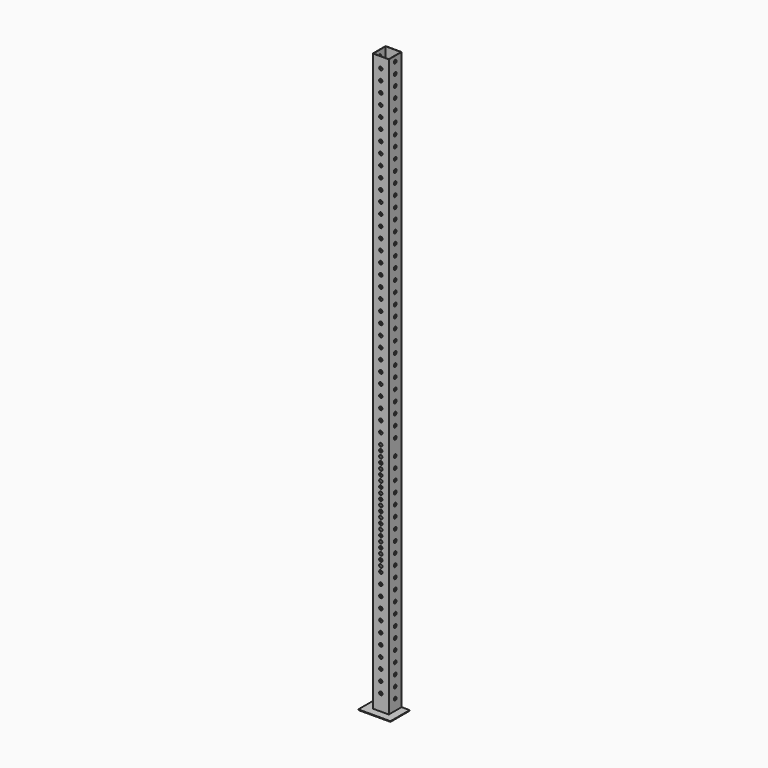
from build123d import *

# Parameters (mm, degrees)
F0_W     = 152.589858
F0_H     = 114.351779
F0_W_2   = 76.2
F0_H_2   = 76.2
F1_DEPTH = 3.048
F0_W_3   = 73.152
F0_H_3   = 73.152
F2_DEPTH = 2743.2
F7_D     = 15.875
F8_D     = 15.875


with BuildPart() as f1:
    # F0 (on Top) → F1 (new body)
    with BuildSketch(Plane.XY):
        with Locations((0.045307, -19.073733)):
            Rectangle(F0_W, F0_H)
        Rectangle(F0_W_2, F0_H_2, mode=Mode.SUBTRACT)
    extrude(amount=-F1_DEPTH)

    # F0 (on Top) → F2 (join)
    with BuildSketch(Plane.XY):
        Rectangle(F0_W_2, F0_H_2)
        Rectangle(F0_W_3, F0_H_3, mode=Mode.SUBTRACT)
    extrude(amount=F2_DEPTH)

    # F7 (through all)
    with Locations(Plane.XZ.offset(76.2)):
        with Locations((2.3e-05, 76.2), (2.3e-05, 127), (2.3e-05, 177.8), (2.3e-05, 228.6), (2.3e-05, 279.4), (2.3e-05, 330.2), (2.3e-05, 381), (2.3e-05, 431.8), (2.3e-05, 482.6), (2.3e-05, 533.4), (2.3e-05, 584.2), (0, 609.59998), (-2.3e-05, 634.999959), (-4.6e-05, 660.399939), (-6.8e-05, 685.799918), (-9.1e-05, 711.199898), (-0.000114, 736.599877), (-0.000137, 761.999857), (-0.00016, 787.399836), (-0.000183, 812.799816), (-0.000205, 838.199795), (-0.000228, 863.599775), (-0.000251, 888.999754), (-0.000274, 914.399734), (-0.000297, 939.799713), (-0.00032, 965.199693), (-0.000342, 990.599672), (-0.000365, 1015.999652), (-0.000388, 1041.399632), (-0.000411, 1066.799611), (-0.000434, 1092.199591), (-0.000457, 1117.59957), (0.000502, 1168.39957), (0.000502, 1219.19957), (0.000502, 1269.99957), (0.000502, 1320.79957), (0.000502, 1371.59957), (0.000502, 1422.39957), (0.000502, 1473.19957), (0.000502, 1523.99957), (0.000502, 1574.79957), (0.000502, 1625.59957), (0.000502, 1676.39957), (0.000502, 1727.19957), (0.000502, 1777.99957), (0.000502, 1828.79957), (0.000502, 1879.59957), (0.000502, 1930.39957), (0.000502, 1981.19957), (0.000502, 2031.99957), (0.000502, 2082.79957), (0.000502, 2133.59957), (0.000502, 2184.39957), (0.000502, 2235.19957), (0.000502, 2285.99957), (0.000502, 2336.79957), (0.000502, 2387.59957), (0.000502, 2438.39957), (0.000502, 2489.19957), (0.000502, 2539.99957), (0.000502, 2590.79957), (0.000502, 2641.59957), (0.000502, 2692.39957)):
            Hole(F7_D / 2)

    # F8 (through all)
    with Locations(Plane.YZ.offset(76.2)):
        with Locations((0, 50.8), (0, 101.6), (0, 152.4), (0, 203.2), (0, 254), (0, 304.8), (0, 355.6), (0, 406.4), (0, 457.2), (0, 508), (0, 558.8), (0, 609.6), (0, 660.4), (0, 711.2), (0, 762), (0, 812.8), (0, 863.6), (0, 914.4), (0, 965.2), (0, 1016), (0, 1066.8), (0, 1143), (0, 1193.8), (0, 1244.6), (0, 1295.4), (0, 1346.2), (0, 1397), (0, 1447.8), (0, 1498.6), (0, 1549.4), (0, 1600.2), (0, 1651), (0, 1701.8), (0, 1752.6), (0, 1803.4), (0, 1854.2), (0, 1905), (0, 1955.8), (0, 2006.6), (0, 2057.4), (0, 2108.2), (0, 2159), (0, 2209.8), (0, 2260.6), (0, 2311.4), (0, 2362.2), (0, 2413), (0, 2463.8), (0, 2514.6), (0, 2565.4), (0, 2616.2), (0, 2667), (0, 2717.8)):
            Hole(F8_D / 2)


solid = f1.part
